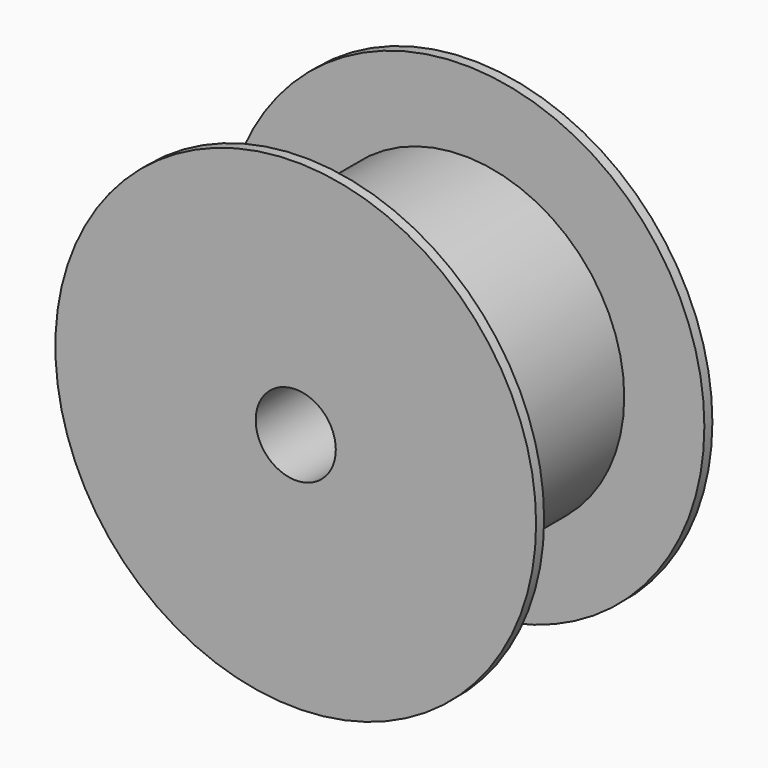
from build123d import *

# Parameters (mm, degrees)
F0_R     = 76.2
F1_DEPTH = 3.175
F2_R     = 50.8
F3_DEPTH = 63.5
F4_R     = 76.2
F5_DEPTH = 3.175
F6_R     = 12.7
F7_DEPTH = 254


with BuildPart() as f1:
    # F0 (on Front) → F1 (new body)
    with BuildSketch(Plane.XZ):
        Circle(F0_R)
    extrude(amount=F1_DEPTH)

    # F2 (on face) → F3 (join)
    with BuildSketch(Plane.XZ.offset(3.175)):
        Circle(F2_R)
    extrude(amount=F3_DEPTH)

    # F4 (on face) → F5 (join)
    with BuildSketch(Plane.XZ.offset(66.675)):
        Circle(F4_R)
    extrude(amount=F5_DEPTH)

    # F6 (on face) → F7 (cut)
    with BuildSketch(Plane.XZ.offset(69.85)):
        Circle(F6_R)
    extrude(amount=-F7_DEPTH, mode=Mode.SUBTRACT)


solid = f1.part
